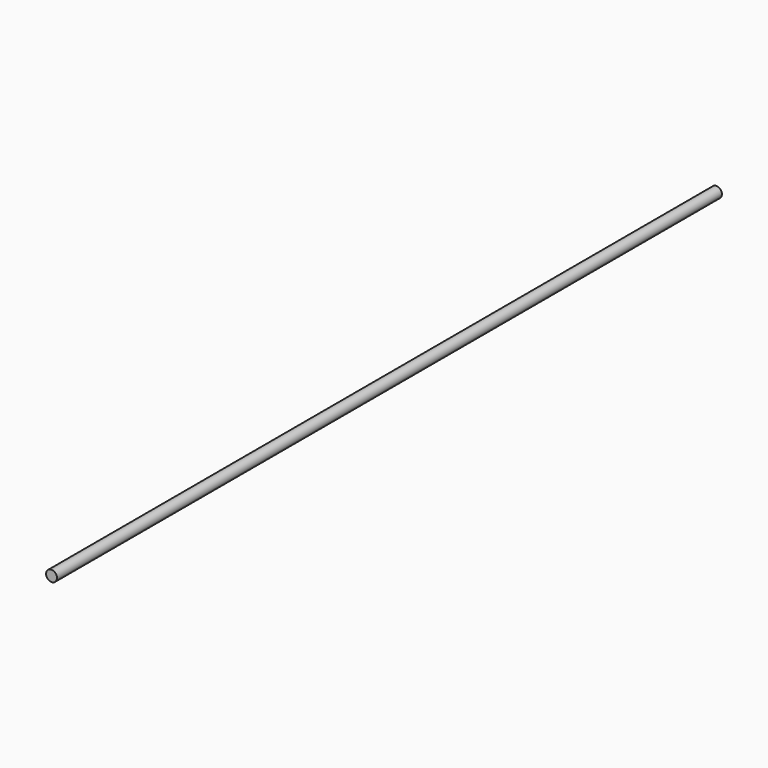
from build123d import *

# Parameters (mm, degrees)
F0_R      = 4.000005
F1_DEPTH  = 863.6
F1_FACE_R = 4.000005
F2_DEPTH  = 253.9746


with BuildPart() as f1:
    # F0 (on Front) → F1 (new body)
    with BuildSketch(Plane.XZ):
        Circle(F0_R)
    extrude(amount=F1_DEPTH)

    # F1_face (on face) → F2 (cut)
    with BuildSketch(Plane.XZ.offset(863.6)):
        Circle(F1_FACE_R)
    extrude(amount=-F2_DEPTH, mode=Mode.SUBTRACT)


solid = f1.part
